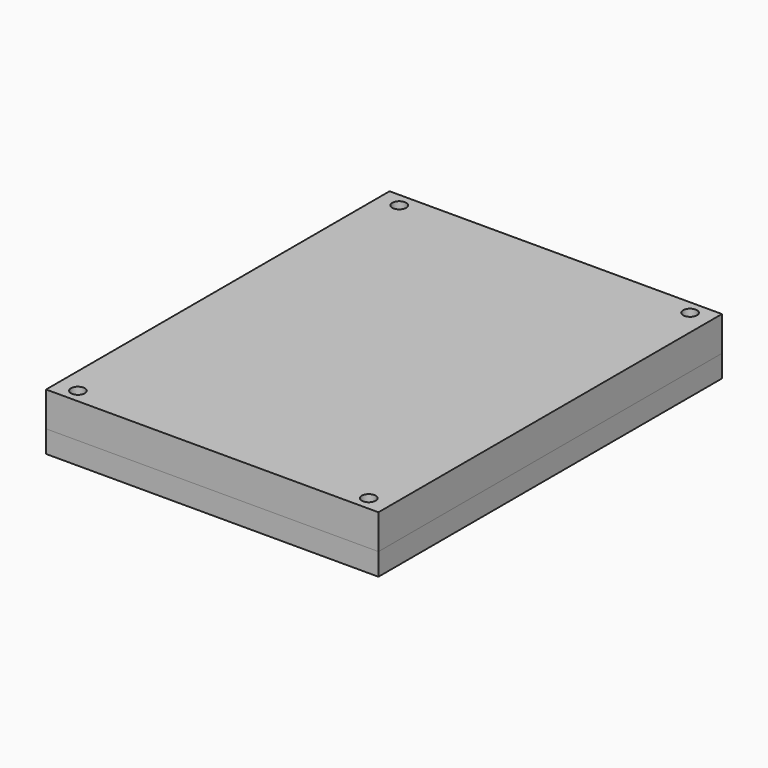
from build123d import *

# Parameters (mm, degrees)
F0_W           = 240
F0_H           = 310
F1_DEPTH       = 16
F2_D           = 5.5
F2_CBORE_D     = 9.75
F2_CBORE_DEPTH = 5
F4_D           = 5
F4_DEPTH       = 20
F4_TIP         = 1.5021515476
F5_W           = 240
F5_H           = 310
F5_R           = 2.5
F6_DEPTH       = 25
F7_R           = 5
F8_DEPTH       = 10


with BuildPart() as f1:
    # F0 (on Top) → F1 (new body)
    with BuildSketch(Plane.XY):
        Rectangle(F0_W, F0_H)
    extrude(amount=-F1_DEPTH)

    # F2 (through all)
    with Locations(Plane.XY):
        with Locations((94, 131), (62, 131), (94, 95), (62, 95), (-62, 131), (-94, 131), (-62, 95), (-94, 95), (94, -95), (62, -95), (94, -131), (62, -131), (-62, -95), (-94, -95), (-62, -131), (-94, -131), (20, 12), (20, -12), (-20, 12), (-20, -12)):
            CounterBoreHole(F2_D / 2, F2_CBORE_D / 2, F2_CBORE_DEPTH)

    # F4
    with Locations(Plane.XY):
        with Locations((-15, 145), (15, 145), (-105, 65), (105, 65), (-105, -65), (105, -65), (-15, -145), (15, -145), (-105, -145), (105, -145), (105, 145), (-105, 145), (-15, 65), (15, 65), (-15, -65), (15, -65)):
            Hole(F4_D / 2, depth=F4_DEPTH)
            with Locations((0, 0, -(F4_DEPTH + F4_TIP / 2))):  # 118° drill point
                Cone(0, F4_D / 2, F4_TIP, mode=Mode.SUBTRACT)


with BuildPart() as f6:
    # F5 (on face) → F6 (new body)
    with BuildSketch(Plane.XY):
        Rectangle(F5_W, F5_H)
        with Locations((-105, -145)):
            Circle(F5_R, mode=Mode.SUBTRACT)
        with Locations((105, -145)):
            Circle(F5_R, mode=Mode.SUBTRACT)
        with Locations((-105, 145)):
            Circle(F5_R, mode=Mode.SUBTRACT)
        with Locations((105, 145)):
            Circle(F5_R, mode=Mode.SUBTRACT)
    extrude(amount=F6_DEPTH)

    # F7 (on face) → F8 (cut)
    with BuildSketch(Plane.XY.offset(25)):
        with Locations((-105, -145)):
            Circle(F7_R)
        with Locations((105, -145)):
            Circle(F7_R)
        with Locations((105, 145)):
            Circle(F7_R)
        with Locations((-105, 145)):
            Circle(F7_R)
    extrude(amount=-F8_DEPTH, mode=Mode.SUBTRACT)


solid = Compound([f1.part, f6.part])
